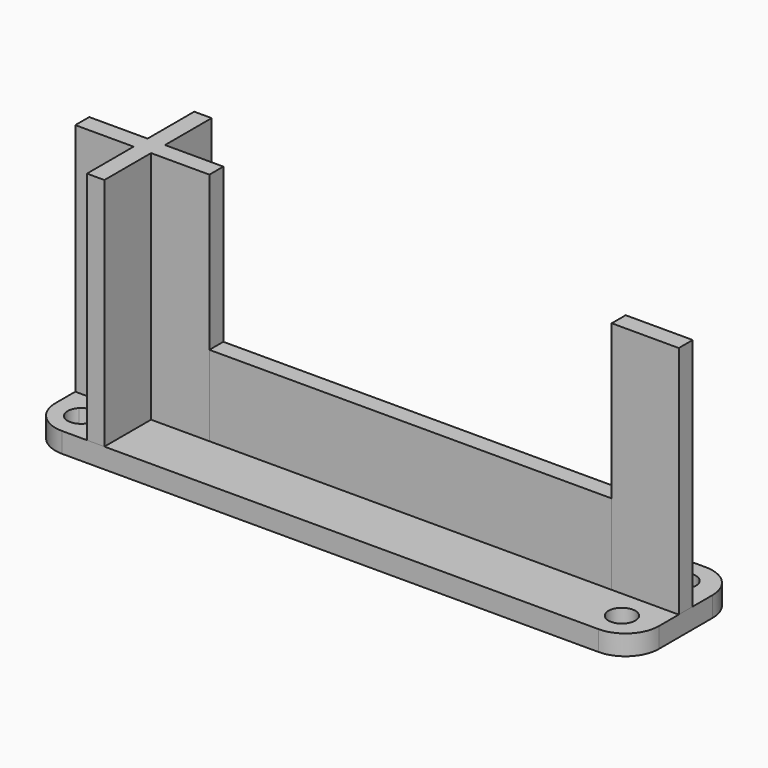
from build123d import *

# Parameters (mm, degrees)
F0_W     = 10
F0_H     = 1.3
F1_DEPTH = 38
F0_W_2   = 8.7
F0_H_2   = 2.6
F0_W_3   = 1.3
F0_W_4   = 18
F2_DEPTH = 3
F3_DEPTH = 15


with BuildPart() as f1:
    # F0 (on Top) → F1 (new body)
    with BuildSketch(Plane.XY):
        with Locations((75, -0.65)):
            Rectangle(F0_W, F0_H)
        with Locations((75, 0.65)):
            Rectangle(F0_W, F0_H)
    extrude(amount=F1_DEPTH)


with BuildPart() as f1b:
    # F0 (on Top) → F1, piece 2 (new body)
    with BuildSketch(Plane.XY):
        Polygon((0, 1.3), (1.3, 1.3), (1.3, 10), (-1.3, 10), (-1.3, 1.3), align=None)
        with Locations((-5.65, 0)):
            Rectangle(F0_W_2, F0_H_2)
        Polygon((1.3, -10), (1.3, -1.3), (0, -1.3), (-1.3, -1.3), (-1.3, -10), align=None)
        with Locations((5.65, -0.65)):
            Rectangle(F0_W_2, F0_H)
        with Locations((5.65, 0.65)):
            Rectangle(F0_W_2, F0_H)
        with Locations((0.65, -0.65)):
            Rectangle(F0_W_3, F0_H)
        with Locations((0.65, 0.65)):
            Rectangle(F0_W_3, F0_H)
        Polygon((0, 0), (0, 1.3), (-1.3, 1.3), (-1.3, -1.3), (0, -1.3), align=None)
    extrude(amount=F1_DEPTH)


with BuildPart() as f2:
    # F0 (on Top) → F2 (new body)
    with BuildSketch(Plane.XY):
        with BuildLine():
            Line((-7.0642135624, -4.2357864376), (-10, -1.3))
            Line((-10, -1.3), (-10, -5))
            ThreePointArc((-10, -5), (-8.5355339059, -8.5355339059), (-5, -10))
            Line((-5, -10), (-1.3, -10))
            Line((-1.3, -10), (-4.2357864376, -7.0642135624))
            ThreePointArc((-4.2357864376, -7.0642135624), (-7.0642135624, -7.0642135624), (-7.0642135624, -4.2357864376))
        make_face()
        with BuildLine():
            ThreePointArc((35.65, -3.3), (18.151339337, -4.9906352574), (1.3, -10))
            Line((1.3, -10), (70, -10))
            ThreePointArc((70, -10), (53.148660663, -4.9906352574), (35.65, -3.3))
        make_face()
        with BuildLine():
            Line((-4.2357864376, 7.0642135624), (-1.3, 10))
            Line((-1.3, 10), (-5, 10))
            ThreePointArc((-5, 10), (-8.5355339059, 8.5355339059), (-10, 5))
            Line((-10, 5), (-10, 1.3))
            Line((-10, 1.3), (-7.0642135624, 4.2357864376))
            ThreePointArc((-7.0642135624, 4.2357864376), (-7.0642135624, 7.0642135624), (-4.2357864376, 7.0642135624))
        make_face()
        with BuildLine():
            Line((70, 10), (1.3, 10))
            ThreePointArc((1.3, 10), (18.151339337, 4.9906352574), (35.65, 3.3))
            ThreePointArc((35.65, 3.3), (53.148660663, 4.9906352574), (70, 10))
        make_face()
        with Locations((-5.65, 0)):
            Rectangle(F0_W_2, F0_H_2)
        with Locations((75, 0.65)):
            Rectangle(F0_W, F0_H)
        with Locations((75, -0.65)):
            Rectangle(F0_W, F0_H)
        with BuildLine():
            Line((73.4911138428, -6.9627309567), (70, -10))
            Line((70, -10), (75, -10))
            ThreePointArc((75, -10), (78.5355339059, -8.5355339059), (80, -5))
            Line((80, -5), (80, -1.3))
            Line((80, -1.3), (76.5088861572, -4.3372690433))
            ThreePointArc((76.5088861572, -4.3372690433), (76.8732021133, -4.9492048496), (77, -5.65))
            ThreePointArc((77, -5.65), (75.7007951504, -7.5232021133), (73.4911138428, -6.9627309567))
        make_face()
        with BuildLine():
            Line((75, 10), (70, 10))
            Line((70, 10), (73.4911138428, 6.9627309567))
            ThreePointArc((73.4911138428, 6.9627309567), (75.7007951504, 7.5232021133), (77, 5.65))
            ThreePointArc((77, 5.65), (76.8732021133, 4.9492048496), (76.5088861572, 4.3372690433))
            Line((76.5088861572, 4.3372690433), (80, 1.3))
            Line((80, 1.3), (80, 5))
            ThreePointArc((80, 5), (78.5355339059, 8.5355339059), (75, 10))
        make_face()
        Polygon((0, 1.3), (1.3, 1.3), (1.3, 10), (-1.3, 10), (-1.3, 1.3), align=None)
        with BuildLine():
            Line((-10, 1.3), (-1.3, 1.3))
            Line((-1.3, 1.3), (-1.3, 10))
            Line((-1.3, 10), (-4.2357864376, 7.0642135624))
            ThreePointArc((-4.2357864376, 7.0642135624), (-3.802240935, 6.4153668647), (-3.65, 5.65))
            ThreePointArc((-3.65, 5.65), (-4.8846331353, 3.802240935), (-7.0642135624, 4.2357864376))
            Line((-7.0642135624, 4.2357864376), (-10, 1.3))
        make_face()
        Polygon((1.3, -10), (1.3, -1.3), (0, -1.3), (-1.3, -1.3), (-1.3, -10), align=None)
        with BuildLine():
            Line((-1.3, -10), (-1.3, -1.3))
            Line((-1.3, -1.3), (-10, -1.3))
            Line((-10, -1.3), (-7.0642135624, -4.2357864376))
            ThreePointArc((-7.0642135624, -4.2357864376), (-4.8846331353, -3.802240935), (-3.65, -5.65))
            ThreePointArc((-3.65, -5.65), (-3.802240935, -6.4153668647), (-4.2357864376, -7.0642135624))
            Line((-4.2357864376, -7.0642135624), (-1.3, -10))
        make_face()
        with BuildLine():
            Line((73.4911138428, 6.9627309567), (70, 10))
            Line((70, 10), (70, 1.3))
            Line((70, 1.3), (80, 1.3))
            Line((80, 1.3), (76.5088861572, 4.3372690433))
            ThreePointArc((76.5088861572, 4.3372690433), (73.6872690433, 4.1411138428), (73.4911138428, 6.9627309567))
        make_face()
        with BuildLine():
            Line((80, -1.3), (70, -1.3))
            Line((70, -1.3), (70, -10))
            Line((70, -10), (73.4911138428, -6.9627309567))
            ThreePointArc((73.4911138428, -6.9627309567), (73.6872690433, -4.1411138428), (76.5088861572, -4.3372690433))
            Line((76.5088861572, -4.3372690433), (80, -1.3))
        make_face()
        with BuildLine():
            Line((35.65, -1.3), (10, -1.3))
            Line((10, -1.3), (1.3, -1.3))
            Line((1.3, -1.3), (1.3, -10))
            ThreePointArc((1.3, -10), (18.151339337, -4.9906352574), (35.65, -3.3))
            Line((35.65, -3.3), (35.65, -1.3))
        make_face()
        with BuildLine():
            Line((35.65, 3.3), (35.65, 1.3))
            Line((35.65, 1.3), (52, 1.3))
            Line((52, 1.3), (70, 1.3))
            Line((70, 1.3), (70, 10))
            ThreePointArc((70, 10), (53.148660663, 4.9906352574), (35.65, 3.3))
        make_face()
        with BuildLine():
            Line((1.3, 1.3), (10, 1.3))
            Line((10, 1.3), (35.65, 1.3))
            Line((35.65, 1.3), (35.65, 3.3))
            ThreePointArc((35.65, 3.3), (18.151339337, 4.9906352574), (1.3, 10))
            Line((1.3, 10), (1.3, 1.3))
        make_face()
        Polygon((35.65, 1.3), (10, 1.3), (10, 0), (52, 0), (52, 1.3), align=None)
        Polygon((52, 0), (10, 0), (10, -1.3), (35.65, -1.3), (52, -1.3), align=None)
        with Locations((61, 0.65)):
            Rectangle(F0_W_4, F0_H)
        with Locations((5.65, 0.65)):
            Rectangle(F0_W_2, F0_H)
        with Locations((5.65, -0.65)):
            Rectangle(F0_W_2, F0_H)
        with Locations((0.65, -0.65)):
            Rectangle(F0_W_3, F0_H)
        Polygon((0, 0), (0, 1.3), (-1.3, 1.3), (-1.3, -1.3), (0, -1.3), align=None)
        with Locations((0.65, 0.65)):
            Rectangle(F0_W_3, F0_H)
        with Locations((61, -0.65)):
            Rectangle(F0_W_4, F0_H)
        with BuildLine():
            Line((52, -1.3), (35.65, -1.3))
            Line((35.65, -1.3), (35.65, -3.3))
            ThreePointArc((35.65, -3.3), (53.148660663, -4.9906352574), (70, -10))
            Line((70, -10), (70, -1.3))
            Line((70, -1.3), (52, -1.3))
        make_face()
    extrude(amount=F2_DEPTH)


with BuildPart() as f3:
    # F0 (on Top) → F3 (new body)
    with BuildSketch(Plane.XY):
        Polygon((35.65, 1.3), (10, 1.3), (10, 0), (52, 0), (52, 1.3), align=None)
        Polygon((52, 0), (10, 0), (10, -1.3), (35.65, -1.3), (52, -1.3), align=None)
        with Locations((61, 0.65)):
            Rectangle(F0_W_4, F0_H)
        with Locations((61, -0.65)):
            Rectangle(F0_W_4, F0_H)
    extrude(amount=F3_DEPTH)


solid = Compound([f1.part, f1b.part, f2.part, f3.part])
